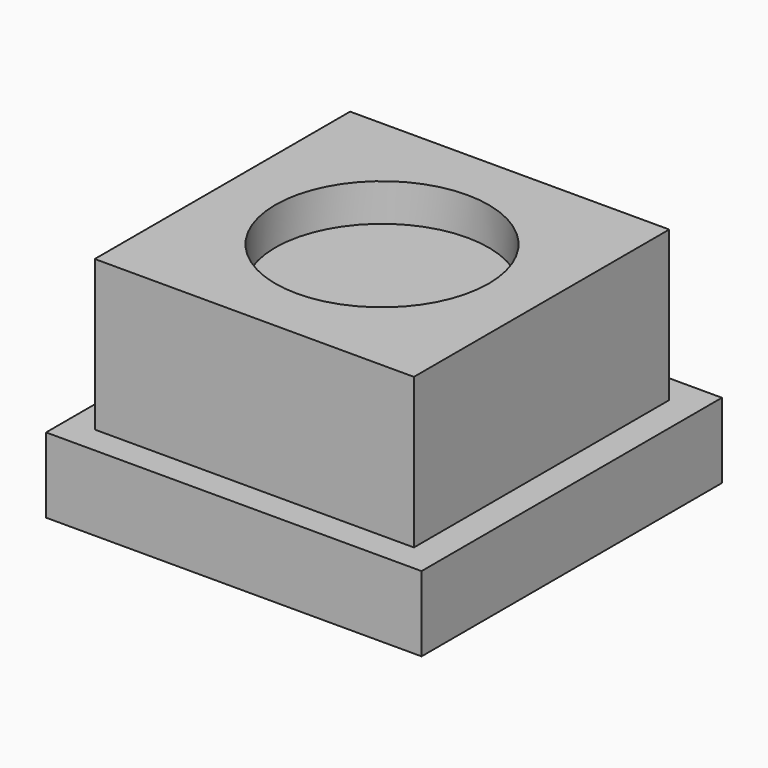
from build123d import *

# Parameters (mm, degrees)
F0_W     = 25.4
F0_H     = 25.4
F0_W_2   = 21.59
F0_H_2   = 21.59
F1_DEPTH = 5.08
F0_R     = 7.215884
F2_DEPTH = 15.24
F3_DEPTH = 12.7


with BuildPart() as f1:
    # F0 (on Top) → F1 (new body)
    with BuildSketch(Plane.XY):
        with Locations((-38.394353, 12.483482)):
            Rectangle(F0_W, F0_H)
        with Locations((-38.49318, 12.438105)):
            Rectangle(F0_W_2, F0_H_2, mode=Mode.SUBTRACT)
    extrude(amount=F1_DEPTH)

    # F0 (on Top) → F2 (join)
    with BuildSketch(Plane.XY):
        with Locations((-38.49318, 12.438105)):
            Rectangle(F0_W_2, F0_H_2)
        with Locations((-38.49318, 12.438105)):
            Circle(F0_R, mode=Mode.SUBTRACT)
    extrude(amount=F2_DEPTH)

    # F0 (on Top) → F3 (join)
    with BuildSketch(Plane.XY):
        with Locations((-38.49318, 12.438105)):
            Circle(F0_R)
    extrude(amount=F3_DEPTH)


solid = f1.part
